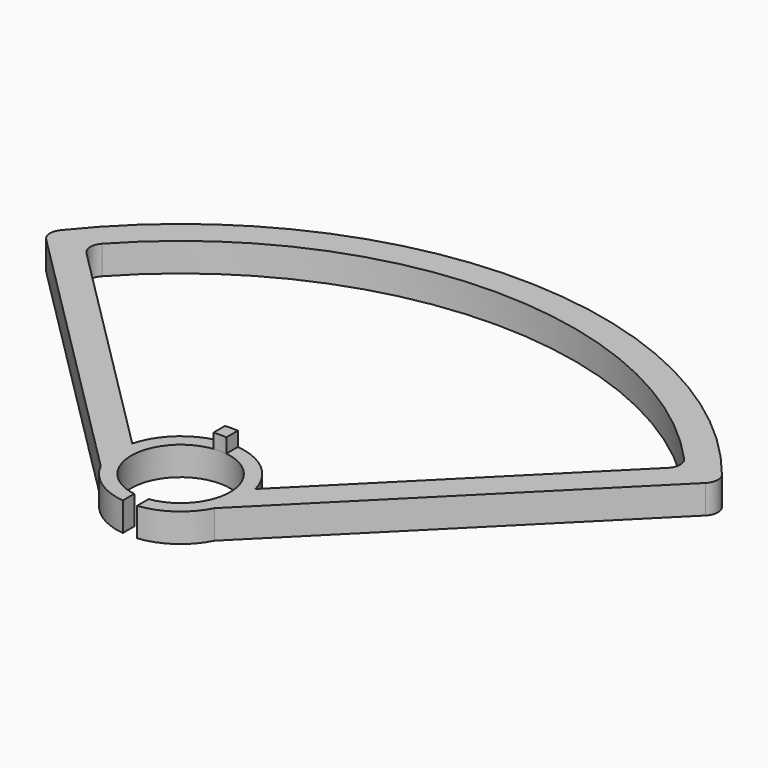
from build123d import *

# Parameters (mm, degrees)
F1_DEPTH = 2
F3_DEPTH = 1
F4_R     = 1


with BuildPart() as f1:
    # F0 (on Top) → F1 (new body)
    with BuildSketch(Plane.XY):
        with BuildLine():
            ThreePointArc((4.298409, 1.1516), (4.426787, -0.453934), (3.975236, -2))
            Line((3.975236, -2), (23.632209, 17.656973))
            ThreePointArc((23.632209, 17.656973), (0, 29.5), (-23.632209, 17.656973))
            Line((-23.632209, 17.656973), (-3.975236, -2))
            ThreePointArc((-3.975236, -2), (-4.426787, -0.453934), (-4.298409, 1.1516))
            Line((-4.298409, 1.1516), (-20.955081, 17.808273))
            ThreePointArc((-20.955081, 17.808273), (0, 27.5), (20.955081, 17.808273))
            Line((20.955081, 17.808273), (4.298409, 1.1516))
        make_face()
        with BuildLine():
            Line((0.5, -3.413576), (0.5, -4.421821))
            ThreePointArc((0.5, -4.421821), (2.544256, -3.650926), (3.975236, -2))
            ThreePointArc((3.975236, -2), (4.426787, -0.453934), (4.298409, 1.1516))
            ThreePointArc((4.298409, 1.1516), (0, 4.45), (-4.298409, 1.1516))
            ThreePointArc((-4.298409, 1.1516), (-4.426787, -0.453934), (-3.975236, -2))
            ThreePointArc((-3.975236, -2), (-2.544256, -3.650926), (-0.5, -4.421821))
            Line((-0.5, -4.421821), (-0.5, -3.413576))
            ThreePointArc((-0.5, -3.413576), (0, 3.45), (0.5, -3.413576))
        make_face()
    extrude(amount=F1_DEPTH)

    # F2 (on face) → F3 (join)
    with BuildSketch(Plane.XY.offset(2)):
        with BuildLine():
            Line((0.45, 3.420526), (0.45, 4.427189))
            ThreePointArc((0.45, 4.427189), (0, 4.45), (-0.45, 4.427189))
            Line((-0.45, 4.427189), (-0.45, 3.420526))
            ThreePointArc((-0.45, 3.420526), (0, 3.45), (0.45, 3.420526))
        make_face()
    extrude(amount=F3_DEPTH)

    # F4
    f4_edges = [f1.edges().sort_by_distance(p)[0] for p in [
        (-23.632209, 17.656973, 1),
        (-20.955081, 17.808273, 1),
        (23.632209, 17.656973, 1),
        (20.955081, 17.808273, 1),
    ]]
    fillet(f4_edges, radius=F4_R)


solid = f1.part
